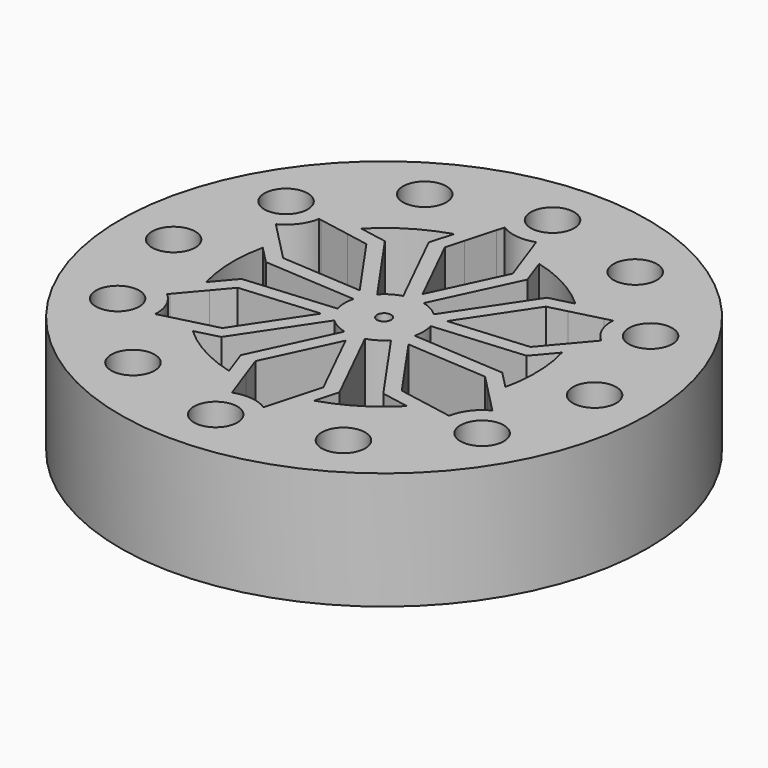
from build123d import *

# Parameters (mm, degrees)
F0_R     = 57.15
F0_R_2   = 4.699
F0_R_3   = 1.524
F1_DEPTH = 25.4


with BuildPart() as f1:
    # F0 (on Top) → F1 (new body)
    with BuildSketch(Plane.XY):
        Circle(F0_R)
        with Locations((-0.012471, -45.568732)):
            Circle(F0_R_2, mode=Mode.SUBTRACT)
        with Locations((-22.799638, -39.458828)):
            Circle(F0_R_2, mode=Mode.SUBTRACT)
        with Locations((-39.478951, -22.773912)):
            Circle(F0_R_2, mode=Mode.SUBTRACT)
        with BuildLine():
            Line((-9.164514, -5.567105), (-18.896484, -20.143289))
            Line((-18.896484, -20.143289), (-22.883833, -21.164274))
            Line((-22.883833, -21.164274), (-29.347375, -22.819305))
            Line((-29.347375, -22.819305), (-30.972017, -23.235305))
            ThreePointArc((-30.972017, -23.235305), (-31.659849, -19.410562), (-33.976573, -16.290536))
            Line((-33.976573, -16.290536), (-33.618292, -15.868193))
            Line((-33.618292, -15.868193), (-29.22395, -10.68813))
            Line((-29.22395, -10.68813), (-26.096301, -7.001249))
            Line((-26.096301, -7.001249), (-9.164514, -5.567105))
        make_face(mode=Mode.SUBTRACT)
        with BuildLine():
            Line((-17.009683, -22.806496), (-5.869526, -6.121182))
            ThreePointArc((-5.869526, -6.121182), (-4.06054, -7.445281), (-1.967811, -8.249117))
            Line((-1.967811, -8.249117), (-10.278486, -25.94343))
            Line((-10.278486, -25.94343), (-8.225538, -31.679786))
            ThreePointArc((-8.225538, -31.679786), (-15.640641, -28.751325), (-22.127766, -24.117013))
            Line((-22.127766, -24.117013), (-17.009683, -22.806496))
        make_face(mode=Mode.SUBTRACT)
        with BuildLine():
            Line((-28.255846, 3.327569), (-8.235862, 2.022568))
            ThreePointArc((-8.235862, 2.022568), (-8.478073, -0.20611), (-8.12785, -2.420384))
            Line((-8.12785, -2.420384), (-27.606912, -4.070285))
            Line((-27.606912, -4.070285), (-31.548269, -8.716368))
            ThreePointArc((-31.548269, -8.716368), (-32.719698, -0.83047), (-31.949829, 7.104701))
            Line((-31.949829, 7.104701), (-28.255846, 3.327569))
        make_face(mode=Mode.SUBTRACT)
        with Locations((22.776746, -39.46648)):
            Circle(F0_R_2, mode=Mode.SUBTRACT)
        with BuildLine():
            Line((0.238997, -10.720255), (7.996358, -26.43648))
            Line((7.996358, -26.43648), (6.886883, -30.400118))
            Line((6.886883, -30.400118), (5.08841, -36.825225))
            Line((5.08841, -36.825225), (4.636356, -38.440205))
            ThreePointArc((4.636356, -38.440205), (0.980115, -37.123514), (-2.880269, -37.569844))
            Line((-2.880269, -37.569844), (-3.066888, -37.048391))
            Line((-3.066888, -37.048391), (-5.355783, -30.652748))
            Line((-5.355783, -30.652748), (-6.984892, -26.100684))
            Line((-6.984892, -26.100684), (0.238997, -10.720255))
        make_face(mode=Mode.SUBTRACT)
        with BuildLine():
            Line((11.246163, -26.134065), (2.366336, -8.143749))
            ThreePointArc((2.366336, -8.143749), (4.417533, -7.239172), (6.160039, -5.828732))
            Line((6.160039, -5.828732), (17.328426, -21.873144))
            Line((17.328426, -21.873144), (23.32273, -22.963418))
            ThreePointArc((23.32273, -22.963418), (17.079057, -27.920855), (9.822063, -31.221714))
            Line((9.822063, -31.221714), (11.246163, -26.134065))
        make_face(mode=Mode.SUBTRACT)
        with BuildLine():
            Line((9.403511, -5.15315), (26.892842, -6.293191))
            Line((26.892842, -6.293191), (29.770716, -9.235843))
            Line((29.770716, -9.235843), (34.435785, -14.00592))
            Line((34.435785, -14.00592), (35.608372, -15.204901))
            ThreePointArc((35.608372, -15.204901), (32.639964, -17.712953), (31.096305, -21.279308))
            Line((31.096305, -21.279308), (30.551404, -21.180199))
            Line((30.551404, -21.180199), (23.868167, -19.964618))
            Line((23.868167, -19.964618), (19.11141, -19.099436))
            Line((19.11141, -19.099436), (9.403511, -5.15315))
        make_face(mode=Mode.SUBTRACT)
        with Locations((39.461662, -22.787167)):
            Circle(F0_R_2, mode=Mode.SUBTRACT)
        with Locations((-45.581203, 0.015305)):
            Circle(F0_R_2, mode=Mode.SUBTRACT)
        with Locations((-39.471299, 22.802472)):
            Circle(F0_R_2, mode=Mode.SUBTRACT)
        with BuildLine():
            Line((-9.403511, 5.15315), (-26.892842, 6.293191))
            Line((-26.892842, 6.293191), (-29.770716, 9.235843))
            Line((-29.770716, 9.235843), (-34.435785, 14.00592))
            Line((-34.435785, 14.00592), (-35.608372, 15.204901))
            ThreePointArc((-35.608372, 15.204901), (-32.639964, 17.712953), (-31.096305, 21.279308))
            Line((-31.096305, 21.279308), (-30.551404, 21.180199))
            Line((-30.551404, 21.180199), (-23.868167, 19.964618))
            Line((-23.868167, 19.964618), (-19.11141, 19.099436))
            Line((-19.11141, 19.099436), (-9.403511, 5.15315))
        make_face(mode=Mode.SUBTRACT)
        with BuildLine():
            Line((-11.246163, 26.134065), (-2.366336, 8.143749))
            ThreePointArc((-2.366336, 8.143749), (-4.417533, 7.239172), (-6.160039, 5.828732))
            Line((-6.160039, 5.828732), (-17.328426, 21.873144))
            Line((-17.328426, 21.873144), (-23.32273, 22.963418))
            ThreePointArc((-23.32273, 22.963418), (-17.079057, 27.920855), (-9.822063, 31.221714))
            Line((-9.822063, 31.221714), (-11.246163, 26.134065))
        make_face(mode=Mode.SUBTRACT)
        with BuildLine():
            Line((-0.238997, 10.720255), (-7.996358, 26.43648))
            Line((-7.996358, 26.43648), (-6.886883, 30.400118))
            Line((-6.886883, 30.400118), (-5.08841, 36.825225))
            Line((-5.08841, 36.825225), (-4.636356, 38.440205))
            ThreePointArc((-4.636356, 38.440205), (-0.980115, 37.123514), (2.880269, 37.569844))
            Line((2.880269, 37.569844), (3.066888, 37.048391))
            Line((3.066888, 37.048391), (5.355783, 30.652748))
            Line((5.355783, 30.652748), (6.984892, 26.100684))
            Line((6.984892, 26.100684), (-0.238997, 10.720255))
        make_face(mode=Mode.SUBTRACT)
        with Locations((-22.786383, 39.481785)):
            Circle(F0_R_2, mode=Mode.SUBTRACT)
        Circle(F0_R_3, mode=Mode.SUBTRACT)
        with BuildLine():
            Line((28.255846, -3.327569), (8.235862, -2.022568))
            ThreePointArc((8.235862, -2.022568), (8.478073, 0.20611), (8.12785, 2.420384))
            Line((8.12785, 2.420384), (27.606912, 4.070285))
            Line((27.606912, 4.070285), (31.548269, 8.716368))
            ThreePointArc((31.548269, 8.716368), (32.719698, 0.83047), (31.949829, -7.104701))
            Line((31.949829, -7.104701), (28.255846, -3.327569))
        make_face(mode=Mode.SUBTRACT)
        with BuildLine():
            Line((17.009683, 22.806496), (5.869526, 6.121182))
            ThreePointArc((5.869526, 6.121182), (4.06054, 7.445281), (1.967811, 8.249117))
            Line((1.967811, 8.249117), (10.278486, 25.94343))
            Line((10.278486, 25.94343), (8.225538, 31.679786))
            ThreePointArc((8.225538, 31.679786), (15.640641, 28.751325), (22.127766, 24.117013))
            Line((22.127766, 24.117013), (17.009683, 22.806496))
        make_face(mode=Mode.SUBTRACT)
        with BuildLine():
            Line((9.164514, 5.567105), (18.896484, 20.143289))
            Line((18.896484, 20.143289), (22.883833, 21.164274))
            Line((22.883833, 21.164274), (29.347375, 22.819305))
            Line((29.347375, 22.819305), (30.972017, 23.235305))
            ThreePointArc((30.972017, 23.235305), (31.659849, 19.410562), (33.976573, 16.290536))
            Line((33.976573, 16.290536), (33.618292, 15.868193))
            Line((33.618292, 15.868193), (29.22395, 10.68813))
            Line((29.22395, 10.68813), (26.096301, 7.001249))
            Line((26.096301, 7.001249), (9.164514, 5.567105))
        make_face(mode=Mode.SUBTRACT)
        with Locations((45.571566, 0)):
            Circle(F0_R_2, mode=Mode.SUBTRACT)
        with Locations((39.469314, 22.789217)):
            Circle(F0_R_2, mode=Mode.SUBTRACT)
        with Locations((22.790001, 39.474133)):
            Circle(F0_R_2, mode=Mode.SUBTRACT)
        with Locations((0.002834, 45.584037)):
            Circle(F0_R_2, mode=Mode.SUBTRACT)
    extrude(amount=F1_DEPTH)


solid = f1.part
